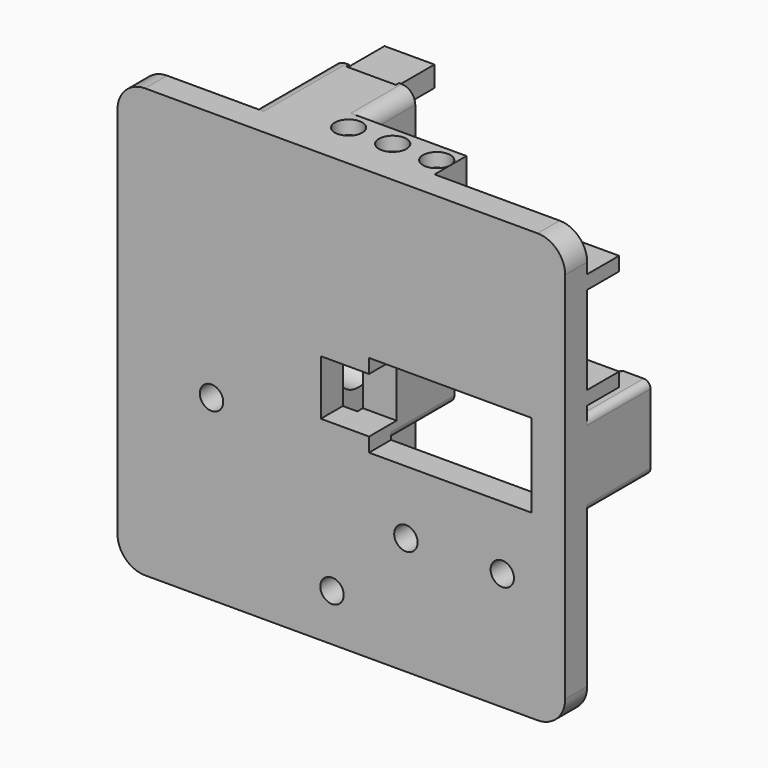
from build123d import *

# Parameters (mm, degrees)
PAD001_DEPTH           = 4
SKETCH004_W            = 23.593678
SKETCH004_H            = 12.115012
POCKET002_DEPTH        = 5
PAD002_DEPTH           = 11.5
SKETCH006_W            = 7
SKETCH006_H            = 8
POCKET003_DEPTH        = 5
PAD003_DEPTH           = 15
SKETCH008_R            = 4
POCKET004_DEPTH        = 12
SKETCH009_W            = 7.25
SKETCH009_H            = 0.596018
POCKET005_DEPTH        = 1000
SKETCH010_R            = 1
POCKET006_DEPTH        = 10
LINEARPATTERN_COUNT    = 4
LINEARPATTERN_PITCH    = 15
SKETCH011_R            = 1
POCKET007_DEPTH        = 10
PAD004_DEPTH           = 5.8
SKETCH013_R            = 2
POCKET008_DEPTH        = 5
LINEARPATTERN001_COUNT = 3
LINEARPATTERN001_PITCH = 6.4
SKETCH014_R            = 2
POCKET009_DEPTH        = 5
LINEARPATTERN002_COUNT = 3
LINEARPATTERN002_PITCH = 6.4
SKETCH015_R            = 2
POCKET010_DEPTH        = 5
LINEARPATTERN003_COUNT = 3
LINEARPATTERN003_PITCH = 6.4
SKETCH016_R            = 2
POCKET011_DEPTH        = 5
LINEARPATTERN004_COUNT = 3
LINEARPATTERN004_PITCH = 6.4
SKETCH017_R            = 1.7
POCKET012_DEPTH        = 5
SKETCH018_R            = 1.7
POCKET013_DEPTH        = 5
PAD006_DEPTH           = 6
SKETCH021_R            = 2
POCKET014_DEPTH        = 5
LINEARPATTERN005_COUNT = 3
LINEARPATTERN005_PITCH = 6.4
SKETCH022_W            = 12.8
SKETCH022_H            = 0.9
PAD007_DEPTH           = 2.5
PAD008_DEPTH           = 10
SKETCH024_R            = 2.095367
POCKET015_DEPTH        = 100
SKETCH025_R            = 3.5
POCKET016_DEPTH        = 25
SKETCH026_R            = 2
POCKET017_DEPTH        = 10
SKETCH037_W            = 7.25
SKETCH037_H            = 3.689443
SKETCH037_H_2          = 3.011791
PAD011_DEPTH           = 7


with BuildPart() as part:
    # Sketch003 → Pad001 (new body)
    with BuildSketch(Plane.XZ):
        with BuildLine():
            Line((-18.055124, -32.328396), (38.972116, -32.328396))
            ThreePointArc((38.972116, -32.328396), (41.800543, -31.156823), (42.972116, -28.328396))
            Line((42.972116, -28.328396), (42.972116, 25.94812))
            ThreePointArc((42.972116, 25.94812), (41.800543, 28.776547), (38.972116, 29.94812))
            Line((38.972116, 29.94812), (-18.055124, 29.94812))
            ThreePointArc((-18.055124, 29.94812), (-20.883551, 28.776547), (-22.055124, 25.94812))
            Line((-22.055124, 25.94812), (-22.055124, -28.328396))
            ThreePointArc((-22.055124, -28.328396), (-20.883551, -31.156823), (-18.055124, -32.328396))
        make_face()
    extrude(amount=PAD001_DEPTH)

    # Sketch004 (on Face9 of Pad001) → Pocket002 (cut)
    with BuildSketch(Plane(origin=(0, 0, 0), x_dir=(1, 0, 0), z_dir=(0, 1, 0))):
        with Locations((26.279653, 0.000844)):
            Rectangle(SKETCH004_W, SKETCH004_H)
    extrude(amount=-POCKET002_DEPTH, mode=Mode.SUBTRACT)

    # Sketch005 (on Face4 of Pocket002) → Pad002 (join)
    with BuildSketch(Plane(origin=(0, 0, 0), x_dir=(1, 0, 0), z_dir=(0, 1, 0))):
        with BuildLine():
            Line((41.972116, 6.05835), (39.076492, 6.05835))
            ThreePointArc((39.076492, 6.05835), (38.369385, 5.765457), (38.076492, 5.05835))
            Line((38.076492, 5.05835), (38.076492, -5.056662))
            ThreePointArc((38.076492, -5.056662), (38.369385, -5.763769), (39.076492, -6.056662))
            Line((39.076492, -6.056662), (41.972116, -6.056662))
            ThreePointArc((41.972116, -6.056662), (42.679223, -5.763769), (42.972116, -5.056662))
            Line((42.972116, -5.056662), (42.972116, 5.05835))
            ThreePointArc((42.972116, 5.05835), (42.679223, 5.765457), (41.972116, 6.05835))
        make_face()
        with BuildLine():
            Line((14.482814, -5.056662), (14.482814, 5.05835))
            ThreePointArc((14.482814, 5.05835), (14.189921, 5.765457), (13.482814, 6.05835))
            Line((13.482814, 6.05835), (10.58719, 6.05835))
            ThreePointArc((10.58719, 6.05835), (9.880083, 5.765457), (9.58719, 5.05835))
            Line((9.58719, 5.05835), (9.58719, -5.056662))
            ThreePointArc((9.58719, -5.056662), (9.880083, -5.763769), (10.58719, -6.056662))
            Line((10.58719, -6.056662), (13.482814, -6.056662))
            ThreePointArc((13.482814, -6.056662), (14.189921, -5.763769), (14.482814, -5.056662))
        make_face()
    extrude(amount=PAD002_DEPTH)

    # Sketch006 (on Face5 of Pad002) → Pocket003 (cut)
    with BuildSketch(Plane.XZ.offset(4)):
        with Locations((10.982814, 0)):
            Rectangle(SKETCH006_W, SKETCH006_H)
    extrude(amount=-POCKET003_DEPTH, mode=Mode.SUBTRACT)

    # Sketch007 (on Face4 of Pocket003) → Pad003 (join)
    with BuildSketch(Plane(origin=(0, 0, 0), x_dir=(1, 0, 0), z_dir=(0, 1, 0))):
        with BuildLine():
            Line((-6, 30.328396), (-6, -27.94812))
            ThreePointArc((-6, -27.94812), (-5.414214, -29.362334), (-4, -29.94812))
            Line((-4, -29.94812), (4, -29.94812))
            ThreePointArc((4, -29.94812), (5.414214, -29.362334), (6, -27.94812))
            Line((6, -27.94812), (6, 30.328396))
            ThreePointArc((6, 30.328396), (5.414214, 31.74261), (4, 32.328396))
            Line((4, 32.328396), (-4, 32.328396))
            ThreePointArc((-4, 32.328396), (-5.414214, 31.74261), (-6, 30.328396))
        make_face()
    extrude(amount=PAD003_DEPTH)

    # Sketch008 (on Face9 of Pad003) → Pocket004 (cut)
    with BuildSketch(Plane(origin=(-6, 0, 0), x_dir=(0, 0, -1), z_dir=(-1, 0, 0))):
        with Locations((0, -4.67716)):
            Circle(SKETCH008_R)
    extrude(amount=-POCKET004_DEPTH, mode=Mode.SUBTRACT)

    # Sketch009 (on Face14 of Pocket004) → Pocket005 (cut)
    with BuildSketch(Plane(origin=(0, 0, 29.94812), x_dir=(-1, 0, 0), z_dir=(0, 0, 1))):
        with Locations((-0.009979, -14.732646)):
            Rectangle(SKETCH009_W, SKETCH009_H)
    extrude(amount=-POCKET005_DEPTH, mode=Mode.SUBTRACT)

    # Sketch010 (on Face12 of Pocket005) → Pocket006 (cut)
    with BuildSketch(Plane(origin=(0, 14.434637, 0), x_dir=(1, 0, 0), z_dir=(0, 1, 0))):
        with Locations((0, -20.94812)):
            Circle(SKETCH010_R)
    pocket006 = extrude(amount=-POCKET006_DEPTH, mode=Mode.SUBTRACT)

    # LinearPattern: Pocket006 ×4
    with Locations(*[(0, 0, -i * LINEARPATTERN_PITCH) for i in range(1, LINEARPATTERN_COUNT)]):
        add(pocket006, mode=Mode.SUBTRACT)

    # Sketch011 (on Face48 of LinearPattern) → Pocket007 (cut)
    with BuildSketch(Plane(origin=(0, 11.5, 0), x_dir=(1, 0, 0), z_dir=(0, 1, 0))):
        with Locations((39.828403, 0)):
            Circle(SKETCH011_R)
        with Locations((12.128403, 0)):
            Circle(SKETCH011_R)
    extrude(amount=-POCKET007_DEPTH, mode=Mode.SUBTRACT)

    # Sketch012 (on Face8 of Pocket007) → Pad004 (join)
    with BuildSketch(Plane(origin=(0, 0, 0), x_dir=(1, 0, 0), z_dir=(0, 1, 0))):
        Polygon((42.972116, -7.595449), (42.972116, -9.595449), (36.972116, -9.595449), (36.972116, -22.395449), (42.972116, -22.395449), (42.972116, -24.395449), (34.972116, -24.395449), (34.972116, -7.595449), align=None)
        Polygon((-22.055124, -7.595449), (-14.055124, -7.595449), (-14.055124, -24.395449), (-22.055124, -24.395449), (-22.055124, -22.395449), (-16.055124, -22.395449), (-16.055124, -9.595449), (-22.055124, -9.595449), align=None)
        Polygon((4, 32.328396), (4, 24.328396), (6, 24.328396), (6, 30.328396), (18.8, 30.328396), (18.8, 24.328396), (20.8, 24.328396), (20.8, 32.328396), align=None)
        Polygon((4, -21.94812), (4, -29.94812), (20.8, -29.94812), (20.8, -21.94812), (18.8, -21.94812), (18.8, -27.94812), (6, -27.94812), (6, -21.94812), align=None)
    extrude(amount=PAD004_DEPTH)

    # Sketch013 (on Face76 of Pad004) → Pocket008 (cut)
    with BuildSketch(Plane(origin=(36.972116, 0, 0), x_dir=(0, 0, 1), z_dir=(1, 0, 0))):
        with Locations((9.595449, -2.9)):
            Circle(SKETCH013_R)
    pocket008 = extrude(amount=-POCKET008_DEPTH, mode=Mode.SUBTRACT)

    # LinearPattern001: Pocket008 ×3
    with Locations(*[(0, 0, i * LINEARPATTERN001_PITCH) for i in range(1, LINEARPATTERN001_COUNT)]):
        add(pocket008, mode=Mode.SUBTRACT)

    # Sketch014 (on Face84 of LinearPattern001) → Pocket009 (cut)
    with BuildSketch(Plane(origin=(-16.055124, 0, 0), x_dir=(0, 0, -1), z_dir=(-1, 0, 0))):
        with Locations((-22.395449, -2.9)):
            Circle(SKETCH014_R)
    pocket009 = extrude(amount=-POCKET009_DEPTH, mode=Mode.SUBTRACT)

    # LinearPattern002: Pocket009 ×3
    with Locations(*[(0, 0, -i * LINEARPATTERN002_PITCH) for i in range(1, LINEARPATTERN002_COUNT)]):
        add(pocket009, mode=Mode.SUBTRACT)

    # Sketch015 (on Face47 of LinearPattern002) → Pocket010 (cut)
    with BuildSketch(Plane(origin=(0, 0, -30.328396), x_dir=(-1, 0, 0), z_dir=(0, 0, 1))):
        with Locations((-18.8, -2.9)):
            Circle(SKETCH015_R)
    pocket010 = extrude(amount=-POCKET010_DEPTH, mode=Mode.SUBTRACT)

    # LinearPattern003: Pocket010 ×3
    with Locations(*[(-i * LINEARPATTERN003_PITCH, 0, 0) for i in range(1, LINEARPATTERN003_COUNT)]):
        add(pocket010, mode=Mode.SUBTRACT)

    # Sketch016 (on Face45 of LinearPattern003) → Pocket011 (cut)
    with BuildSketch(Plane(origin=(0, 0, 27.94812), x_dir=(1, 0, 0), z_dir=(0, 0, -1))):
        with Locations((18.8, -2.9)):
            Circle(SKETCH016_R)
    pocket011 = extrude(amount=-POCKET011_DEPTH, mode=Mode.SUBTRACT)

    # LinearPattern004: Pocket011 ×3
    with Locations(*[(-i * LINEARPATTERN004_PITCH, 0, 0) for i in range(1, LINEARPATTERN004_COUNT)]):
        add(pocket011, mode=Mode.SUBTRACT)

    # Sketch017 (on Face13 of LinearPattern004) → Pocket012 (cut)
    with BuildSketch(Plane(origin=(0, 0, 0), x_dir=(1, 0, 0), z_dir=(0, 1, 0))):
        with Locations((33.84067, 15.260613)):
            Circle(SKETCH017_R)
        with Locations((19.84067, 15.260613)):
            Circle(SKETCH017_R)
    extrude(amount=-POCKET012_DEPTH, mode=Mode.SUBTRACT)

    # Sketch018 (on Face63 of LinearPattern004) → Pocket013 (cut)
    with BuildSketch(Plane(origin=(0, 0, 0), x_dir=(1, 0, 0), z_dir=(0, 1, 0))):
        with Locations((9.103824, 25.473226)):
            Circle(SKETCH018_R)
        with Locations((-8.396176, 6.473226)):
            Circle(SKETCH018_R)
    extrude(amount=-POCKET013_DEPTH, mode=Mode.SUBTRACT)

    # Sketch020 (on Face59 of Pocket013) → Pad006 (join)
    with BuildSketch(Plane(origin=(0, 5.8, 0), x_dir=(1, 0, 0), z_dir=(0, 1, 0))):
        Polygon((4, 32.328396), (20.8, 32.328396), (20.8, 24.328396), (18.8, 24.328396), (18.8, 30.328396), (6, 30.328396), align=None)
    extrude(amount=PAD006_DEPTH)

    # Sketch021 (on Face108 of Pad006) → Pocket014 (cut)
    with BuildSketch(Plane(origin=(0, 0, -30.328396), x_dir=(-1, 0, 0), z_dir=(0, 0, 1))):
        with Locations((-18.8, -8.9)):
            Circle(SKETCH021_R)
    pocket014 = extrude(amount=-POCKET014_DEPTH, mode=Mode.SUBTRACT)

    # LinearPattern005: Pocket014 ×3
    with Locations(*[(-i * LINEARPATTERN005_PITCH, 0, 0) for i in range(1, LINEARPATTERN005_COUNT)]):
        add(pocket014, mode=Mode.SUBTRACT)

    # Sketch022 (on Face3 of LinearPattern005) → Pad007 (join)
    with BuildSketch(Plane(origin=(0, 0, -30.328396), x_dir=(-1, 0, 0), z_dir=(0, 0, 1))):
        with Locations((-12.4, -5.35)):
            Rectangle(SKETCH022_W, SKETCH022_H)
    extrude(amount=PAD007_DEPTH)

    # Sketch023 (on Face18 of Pad007) → Pad008 (join)
    with BuildSketch(Plane(origin=(0, 0, 0), x_dir=(1, 0, 0), z_dir=(0, 1, 0))):
        with BuildLine():
            ThreePointArc((-19.745117, 19.059552), (-20.794697, 12.346307), (-18.31849, 6.018774))
            ThreePointArc((-18.31849, 6.018774), (-16.915699, 5.809162), (-16.706086, 7.211953))
            ThreePointArc((-17.912877, 18.243208), (-18.800721, 12.564443), (-16.706086, 7.211953))
            ThreePointArc((-17.912877, 18.243208), (-18.420825, 19.5675), (-19.745117, 19.059552))
        make_face()
        with BuildLine():
            ThreePointArc((-15.567673, 17.828673), (-16.492675, 12.57268), (-14.181771, 7.76219))
            ThreePointArc((-14.181771, 7.76219), (-12.768056, 7.724659), (-12.730524, 9.138374))
            ThreePointArc((-13.798535, 16.895855), (-14.511364, 12.845457), (-12.730524, 9.138374))
            ThreePointArc((-13.798535, 16.895855), (-14.216695, 18.246833), (-15.567673, 17.828673))
        make_face()
    extrude(amount=PAD008_DEPTH)

    # Sketch024 (on Face71 of Pad008) → Pocket015 (cut)
    with BuildSketch(Plane(origin=(-6, 0, 0), x_dir=(0, 0, -1), z_dir=(-1, 0, 0))):
        with Locations((12.764299, -5.219973)):
            Circle(SKETCH024_R)
    extrude(amount=POCKET015_DEPTH, mode=Mode.SUBTRACT)

    # Sketch025 (on Face18 of Pocket015) → Pocket016 (cut)
    with BuildSketch(Plane(origin=(0, 0, 0), x_dir=(1, 0, 0), z_dir=(0, 1, 0))):
        with Locations((-8.396176, 6.473226)):
            Circle(SKETCH025_R)
    extrude(amount=POCKET016_DEPTH, mode=Mode.SUBTRACT)

    # Sketch026 (on Face2 of Pocket016) → Pocket017 (cut)
    with BuildSketch(Plane(origin=(0, 0, -32.328396), x_dir=(1, 0, 0), z_dir=(0, 0, -1))):
        with Locations((0, -5.445766)):
            Circle(SKETCH026_R)
    extrude(amount=-POCKET017_DEPTH, mode=Mode.SUBTRACT)

    # Sketch037 (on Face14 of Pocket017) → Pad011 (join)
    with BuildSketch(Plane(origin=(0, 14.434637, 0), x_dir=(1, 0, 0), z_dir=(0, 1, 0))):
        with Locations((0.009979, 30.295567)):
            Rectangle(SKETCH037_W, SKETCH037_H)
        with Locations((0.009979, -28.200277)):
            Rectangle(SKETCH037_W, SKETCH037_H_2)
    extrude(amount=PAD011_DEPTH)


with BuildPart() as part_1:
    # Body001 placement: moved
    add(part.part.moved(Location((0, -14.5, 0))))


solid = part_1.part
